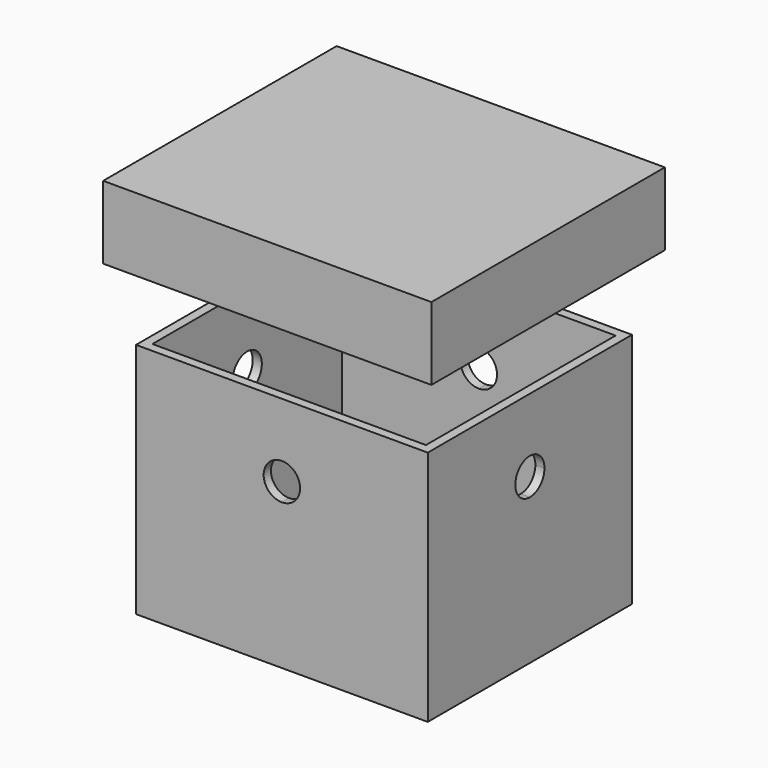
from build123d import *

# Parameters (mm, degrees)
F0_W      = 80
F0_H      = 70
F0_W_2    = 53
F0_H_2    = 53
F1_DEPTH  = 5
F2_DEPTH  = 60
F3_W      = 90
F3_H      = 80
F4_DEPTH  = 40
F3_W_2    = 80
F3_H_2    = 70
F5_DEPTH  = 20
F6_W      = 85
F6_H      = 75
F7_DEPTH  = 10
F8_W      = 75
F8_H      = 65
F9_DEPTH  = 60
F11_DEPTH = 5
F13_DEPTH = 5
F15_DEPTH = 5
F17_DEPTH = 5


with BuildPart() as f1:
    # F0 (on Top) → F1 (new body)
    with BuildSketch(Plane.XY):
        Rectangle(F0_W, F0_H)
        Rectangle(F0_W_2, F0_H_2, mode=Mode.SUBTRACT)
        Rectangle(F0_W_2, F0_H_2)
    extrude(amount=-F1_DEPTH)

    # F0 (on Top) → F2 (join)
    with BuildSketch(Plane.XY):
        Rectangle(F0_W, F0_H)
        Rectangle(F0_W_2, F0_H_2, mode=Mode.SUBTRACT)
    extrude(amount=F2_DEPTH)

    # F3 (on face) → F4 (join)
    with BuildSketch(Plane.XY.offset(60)):
        Rectangle(F3_W, F3_H)
    extrude(amount=F4_DEPTH)

    # F3 (on face) → F5 (cut)
    with BuildSketch(Plane.XY.offset(60)):
        Rectangle(F3_W, F3_H)
        Rectangle(F3_W_2, F3_H_2, mode=Mode.SUBTRACT)
        Rectangle(F3_W, F3_H)
    extrude(amount=F5_DEPTH, mode=Mode.SUBTRACT)

    # F6 (on face) → F7 (cut)
    with BuildSketch(Plane(origin=(0, 0, 80), x_dir=(1, 0, 0), z_dir=(0, 0, -1))):
        Rectangle(F6_W, F6_H)
    extrude(amount=-F7_DEPTH, mode=Mode.SUBTRACT)

    # F8 (on face) → F9 (cut)
    with BuildSketch(Plane.XY.offset(60)):
        Rectangle(F8_W, F8_H)
    extrude(amount=-F9_DEPTH, mode=Mode.SUBTRACT)

    # F10 (on face) → F11 (cut)
    with BuildSketch(Plane(origin=(-40, 0, 0), x_dir=(0, -1, 0), z_dir=(-1, 0, 0))):
        with BuildLine():
            ThreePointArc((0, 35), (3.5355339059, 36.4644660941), (5, 40))
            ThreePointArc((5, 40), (-3.5355339059, 43.5355339059), (0, 35))
        make_face()
    extrude(amount=-F11_DEPTH, mode=Mode.SUBTRACT)

    # F12 (on face) → F13 (cut)
    with BuildSketch(Plane.YZ.offset(40)):
        with BuildLine():
            ThreePointArc((0, 35), (3.5355339059, 36.4644660941), (5, 40))
            ThreePointArc((5, 40), (-3.5355339059, 43.5355339059), (0, 35))
        make_face()
    extrude(amount=-F13_DEPTH, mode=Mode.SUBTRACT)

    # F14 (on face) → F15 (cut)
    with BuildSketch(Plane(origin=(0, 35, 0), x_dir=(-1, 0, 0), z_dir=(0, 1, 0))):
        with BuildLine():
            ThreePointArc((0, 35), (3.5355339059, 36.4644660941), (5, 40))
            ThreePointArc((5, 40), (-3.5355339059, 43.5355339059), (0, 35))
        make_face()
    extrude(amount=-F15_DEPTH, mode=Mode.SUBTRACT)

    # F16 (on face) → F17 (cut)
    with BuildSketch(Plane.XZ.offset(35)):
        with BuildLine():
            ThreePointArc((0, 35), (3.5355339059, 36.4644660941), (5, 40))
            ThreePointArc((5, 40), (-3.5355339059, 43.5355339059), (0, 35))
        make_face()
    extrude(amount=-F17_DEPTH, mode=Mode.SUBTRACT)


solid = f1.part
